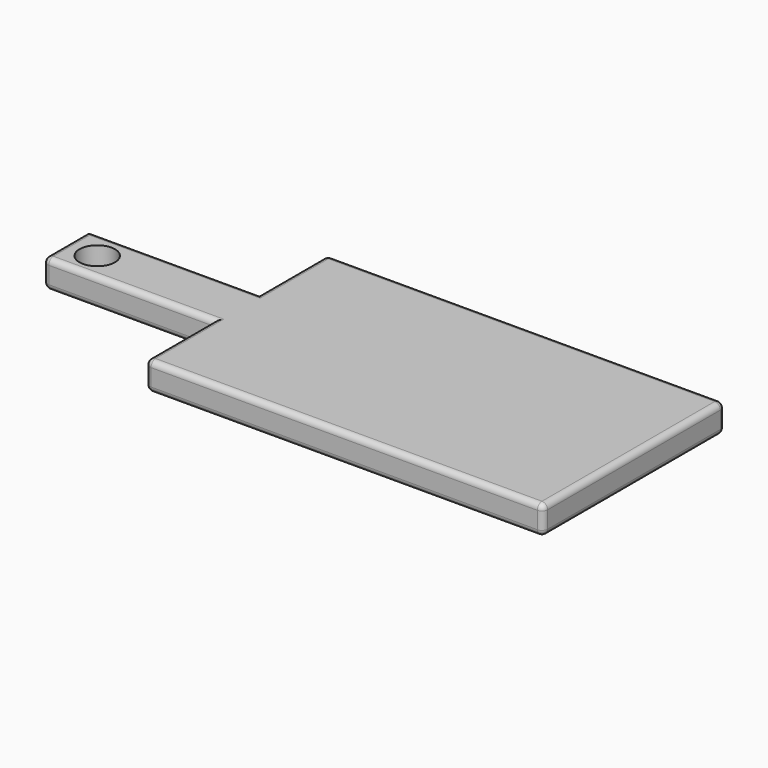
from build123d import *

# Parameters (mm, degrees)
F0_W     = 152.4
F0_H     = 50.8
F1_DEPTH = 25.4
F2_R     = 15.875
F4_DEPTH = 25.401
F5_R     = 5.08


with BuildPart() as f1:
    # F0 (on Top) → F1 (new body)
    with BuildSketch(Plane.XY):
        Polygon((0, 76.2), (0, 0), (355.6, 0), (355.6, 203.2), (0, 203.2), (0, 127), align=None)
        with Locations((-76.2, 101.6)):
            Rectangle(F0_W, F0_H)
    extrude(amount=F1_DEPTH)

    # F2 (on face) → F4 (cut, through all)
    with BuildSketch(Plane.XY.offset(25.4)):
        with Locations((-123.832056, 100.965)):
            Circle(F2_R)
    extrude(amount=-F4_DEPTH, mode=Mode.SUBTRACT)

    # F5
    f5_edges = [f1.edges().sort_by_distance(p)[0] for p in [
        (-152.4, 76.2, 12.7),
        (-76.2, 127, 25.4),
        (-152.4, 101.6, 25.4),
        (-76.2, 76.2, 25.4),
        (-76.2, 76.2, 0),
        (0, 38.1, 25.4),
        (0, 165.1, 25.4),
        (177.8, 203.2, 25.4),
        (177.8, 0, 25.4),
        (177.8, 0, 0),
        (0, 0, 12.7),
        (355.6, 101.6, 25.4),
        (355.6, 0, 12.7),
        (355.6, 101.6, 0),
        (355.6, 203.2, 12.7),
        (177.8, 203.2, 0),
        (0, 38.1, 0),
        (0, 165.1, 0),
        (0, 203.2, 12.7),
        (-152.4, 101.6, 0),
        (-76.2, 127, 0),
    ]]
    fillet(f5_edges, radius=F5_R)


solid = f1.part
